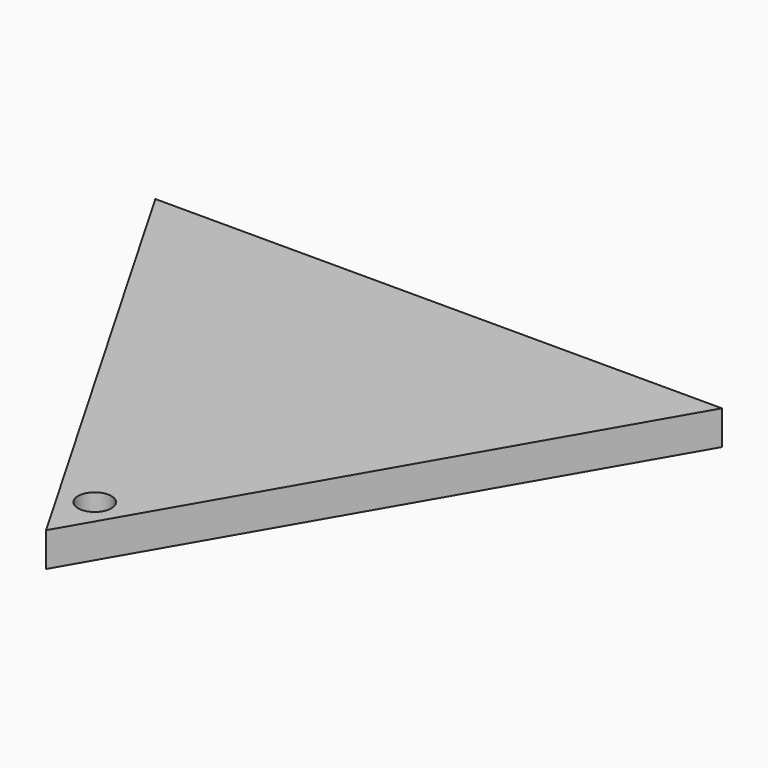
from build123d import *

# Parameters (mm, degrees)
F1_DEPTH = 25.4
F2_R     = 12.405356
F3_DEPTH = 25.4


with BuildPart() as f1:
    # F0 (on Top) → F1 (new body)
    with BuildSketch(Plane.XY):
        Polygon((210.73728, 121.669225), (-210.73728, 121.669225), (0, -243.338451), align=None)
    extrude(amount=F1_DEPTH)

    # F2 (on face) → F3 (cut)
    with BuildSketch(Plane(origin=(0, 0, 0), x_dir=(1, 0, 0), z_dir=(0, 0, -1))):
        with Locations((0, 198.135212)):
            Circle(F2_R)
    extrude(amount=-F3_DEPTH, mode=Mode.SUBTRACT)


solid = f1.part
